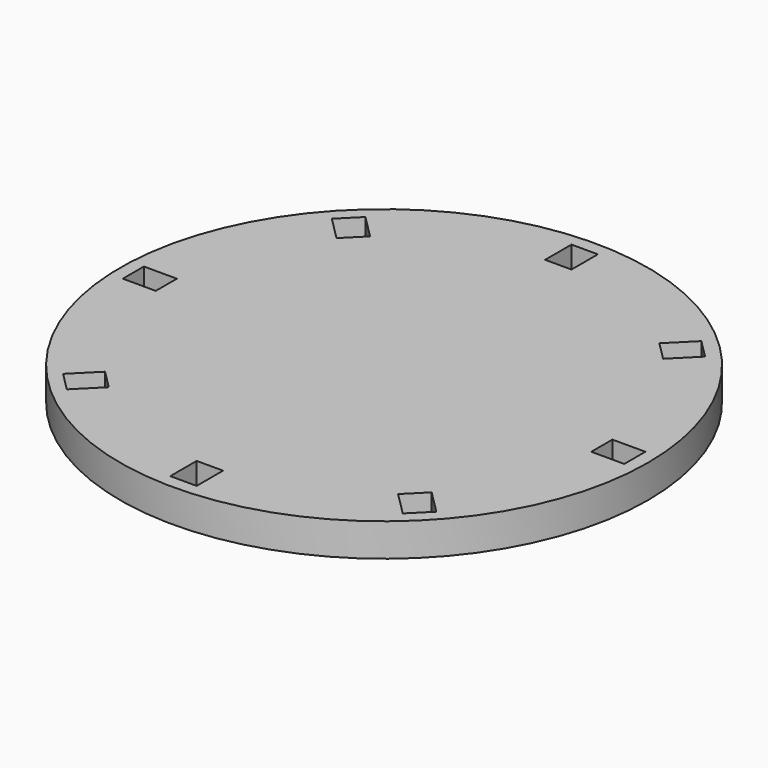
from build123d import *

# Parameters (mm, degrees)
F0_R     = 40
F1_DEPTH = 5


with BuildPart() as f1:
    # F0 (on Top) → F1 (new body)
    with BuildSketch(Plane.XY):
        Circle(F0_R)
        Polygon((-24.747845, -21.919417), (-23.333631, -23.333631), (-21.919417, -24.747845), (-25.454951, -28.283378), (-28.283378, -25.454951), align=None, mode=Mode.SUBTRACT)
        Polygon((2, -38), (0, -38), (-2, -38), (-2, -33), (2, -33), align=None, mode=Mode.SUBTRACT)
        Polygon((21.919417, -24.747845), (23.333631, -23.333631), (24.747845, -21.919417), (28.283378, -25.454951), (25.454951, -28.283378), align=None, mode=Mode.SUBTRACT)
        Polygon((-38, -2), (-38, 0), (-38, 2), (-33, 2), (-33, -2), align=None, mode=Mode.SUBTRACT)
        Polygon((-21.919417, 24.747845), (-23.333631, 23.333631), (-24.747845, 21.919417), (-28.283378, 25.454951), (-25.454951, 28.283378), align=None, mode=Mode.SUBTRACT)
        Polygon((38, 2), (38, 0), (38, -2), (33, -2), (33, 2), align=None, mode=Mode.SUBTRACT)
        Polygon((-2, 38), (0, 38), (2, 38), (2, 33), (-2, 33), align=None, mode=Mode.SUBTRACT)
        Polygon((24.747845, 21.919417), (23.333631, 23.333631), (21.919417, 24.747845), (25.454951, 28.283378), (28.283378, 25.454951), align=None, mode=Mode.SUBTRACT)
    extrude(amount=F1_DEPTH)


solid = f1.part
